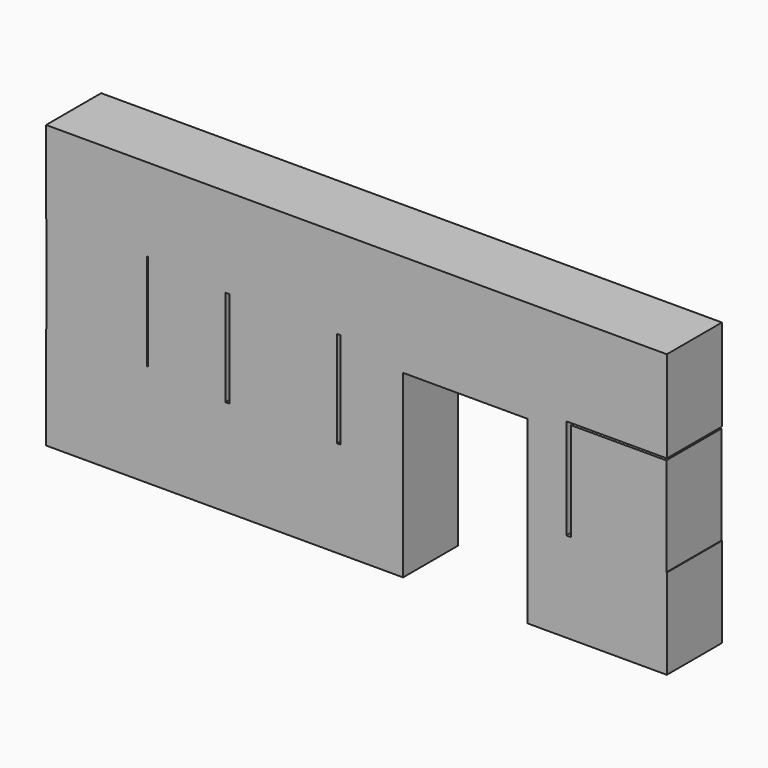
from build123d import *

# Parameters (mm, degrees)
F0_W     = 42.413842
F0_H     = 35.592036
F1_DEPTH = 25.4
F2_W     = 37.088663
F2_H     = 36.227018
F2_W_2   = 39.646498
F2_H_2   = 36.449199
F2_W_3   = 35.170294
F2_H_3   = 36.768933
F3_DEPTH = 25.4


with BuildPart() as f1:
    # F0 (on Front) → F1 (new body)
    with BuildSketch(Plane.XZ):
        Polygon((-100.925893, 0), (-100.925893, -37.818149), (30.764645, -37.818149), (30.764645, 28.620321), (76.737694, 28.620321), (76.737694, -37.818149), (128.049538, -37.818149), (128.049538, -4.598915), (90.97451, -4.598915), (90.97451, 32.476123), (128.049538, 32.476123), (128.049538, 66.288561), (-100.925893, 66.288561), (-100.925893, 35.738729), (-63.25765, 35.738729), (-63.25765, 0), align=None)
        with Locations((-13.577102, 15.569906)):
            Rectangle(F0_W, F0_H, mode=Mode.SUBTRACT)
    extrude(amount=F1_DEPTH)

    # F2 (on Front) → F3 (join)
    with BuildSketch(Plane.XZ):
        with Locations((-82.219466, 18.113509)):
            Rectangle(F2_W, F2_H)
        with Locations((-13.477549, 15.444577)):
            Rectangle(F2_W_2, F2_H_2)
        with Locations((110.257905, 13.366335)):
            Rectangle(F2_W_3, F2_H_3)
    extrude(amount=F3_DEPTH)


solid = f1.part
